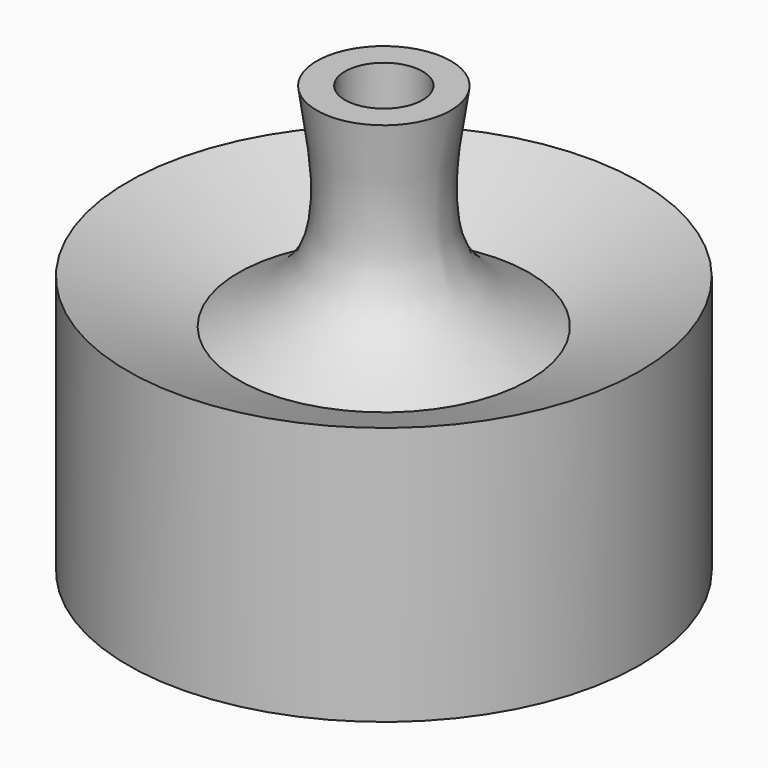
from build123d import *

# Parameters (mm, degrees)
F2_R     = 1.5875
F3_DEPTH = 21.717
F4_R     = 4.7625
F5_DEPTH = 9.525


with BuildPart() as f1:
    # F0 (on Front) → F1 (revolve)
    with BuildSketch(Plane.XZ):
        with BuildLine():
            Line((0, 57.6952844858), (0, 0))
            Line((0, 0), (7.62, 0))
            Line((7.62, 0), (7.62, 5.334))
            add(Edge.make_bspline(
                [(7.62, 5.334), (10.5113989407, 7.1572880683), (17.4669983954, 11.2866916591), (26.5060541886, 7.3539307829), (31.4167737961, 5.334)],
                knots=[0, 0, 0, 0, 0.4582214066, 1, 1, 1, 1], degree=3))
            Line((31.4167737961, 5.334), (31.4167737961, 37.084))
            Line((31.4167737961, 37.084), (17.8404673934, 31.6983275115))
            add(Edge.make_bspline(
                [(8.2212127745, 57.6952844858), (7.1609367505, 50.859872418), (5.223357626, 38.3686423698), (13.9081431845, 33.7772379024), (17.8404673934, 31.6983275115)],
                knots=[0, 0, 0, 0, 0.5472168907, 1, 1, 1, 1], degree=3))
            Line((8.2212127745, 57.6952844858), (0, 57.6952844858))
        make_face()
    revolve(axis=Axis((0, 0, 28.8476422429), (0, 0, 1)))

    # F2 (on face) → F3 (cut)
    with BuildSketch(Plane(origin=(0, 0, 0), x_dir=(1, 0, 0), z_dir=(0, 0, -1))):
        Circle(F2_R)
    extrude(amount=-F3_DEPTH, mode=Mode.SUBTRACT)

    # F4 (on face) → F5 (cut)
    with BuildSketch(Plane.XY.offset(57.6952844858)):
        Circle(F4_R)
    extrude(amount=-F5_DEPTH, mode=Mode.SUBTRACT)


solid = f1.part
